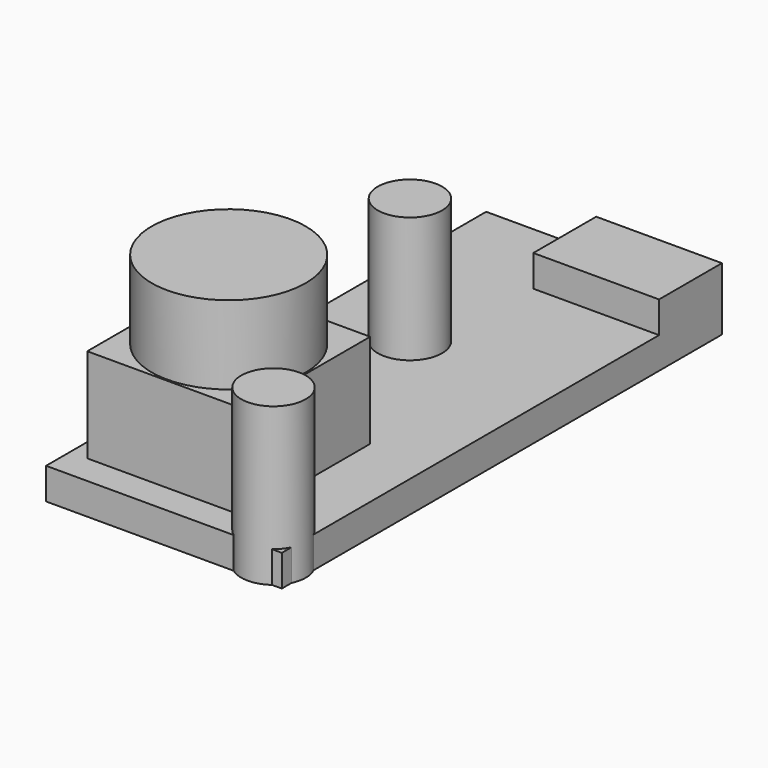
from build123d import *

# Parameters (mm, degrees)
CYLINDER001_R     = 1.25
CYLINDER001_DEPTH = 10
CYLINDER002_R     = 1.25
CYLINDER002_DEPTH = 10
BOX_W             = 15
BOX_H             = 35
BOX_DEPTH         = 2
BOX001_W          = 10
BOX001_H          = 10
BOX001_DEPTH      = 8
CYLINDER_R        = 4.9
CYLINDER_DEPTH    = 13
BOX002_W          = 8
BOX002_H          = 5
BOX002_DEPTH      = 4
CYLINDER003_R     = 1.25
CYLINDER003_DEPTH = 10
CYLINDER004_R     = 1.25
CYLINDER004_DEPTH = 10
CYLINDER005_R     = 2.05
CYLINDER005_DEPTH = 10
CYLINDER006_R     = 2.05
CYLINDER006_DEPTH = 10


with BuildPart() as cylinder001:
    # Cylinder001 → Cylinder001 (new body)
    with BuildSketch(Plane(origin=(5.75, 21.75, 0), x_dir=(1, 0, 0), z_dir=(0, 0, 1))):
        Circle(CYLINDER001_R)
    extrude(amount=CYLINDER001_DEPTH)


with BuildPart() as screwholes:
    # Cylinder002 → Cylinder002 (new body)
    with BuildSketch(Plane(origin=(13.15, 1.65, 0), x_dir=(1, 0, 0), z_dir=(0, 0, 1))):
        Circle(CYLINDER002_R)
    extrude(amount=CYLINDER002_DEPTH)

    # Fusion001: union Cylinder001
    add(cylinder001.part)


with BuildPart() as cube:
    # Box → Box (new body)
    with BuildSketch(Plane.XY):
        with Locations((7.5, 17.5)):
            Rectangle(BOX_W, BOX_H)
    extrude(amount=BOX_DEPTH)


with BuildPart() as cube001:
    # Box001 → Box001 (new body)
    with BuildSketch(Plane(origin=(1.1, 1.9, 0), x_dir=(1, 0, 0), z_dir=(0, 0, 1))):
        with Locations((5, 5)):
            Rectangle(BOX001_W, BOX001_H)
    extrude(amount=BOX001_DEPTH)


with BuildPart() as cylinder:
    # Cylinder → Cylinder (new body)
    with BuildSketch(Plane(origin=(6.1, 6.9, 0), x_dir=(1, 0, 0), z_dir=(0, 0, 1))):
        Circle(CYLINDER_R)
    extrude(amount=CYLINDER_DEPTH)


with BuildPart() as obj1:
    # Box002 → Box002 (new body)
    with BuildSketch(Plane(origin=(7, 30, 0), x_dir=(1, 0, 0), z_dir=(0, 0, 1))):
        with Locations((4, 2.5)):
            Rectangle(BOX002_W, BOX002_H)
    extrude(amount=BOX002_DEPTH)

    # Fusion: union Cube, Cube001, Cylinder
    add(cube.part)
    add(cube001.part)
    add(cylinder.part)

    # Cut: cut ScrewHoles
    add(screwholes.part, mode=Mode.SUBTRACT)


with BuildPart() as cylinder003:
    # Cylinder003 → Cylinder003 (new body)
    with BuildSketch(Plane(origin=(5.75, 21.75, 0), x_dir=(1, 0, 0), z_dir=(0, 0, 1))):
        Circle(CYLINDER003_R)
    extrude(amount=CYLINDER003_DEPTH)


with BuildPart() as screwtemplates_through:
    # Cylinder004 → Cylinder004 (new body)
    with BuildSketch(Plane(origin=(13.15, 1.65, 0), x_dir=(1, 0, 0), z_dir=(0, 0, 1))):
        Circle(CYLINDER004_R)
    extrude(amount=CYLINDER004_DEPTH)

    # Fusion002: union Cylinder003
    add(cylinder003.part)


with BuildPart() as cylinder005:
    # Cylinder005 → Cylinder005 (new body)
    with BuildSketch(Plane(origin=(5.75, 21.75, 0), x_dir=(1, 0, 0), z_dir=(0, 0, 1))):
        Circle(CYLINDER005_R)
    extrude(amount=CYLINDER005_DEPTH)


with BuildPart() as screwtemplates_core:
    # Cylinder006 → Cylinder006 (new body)
    with BuildSketch(Plane(origin=(13.15, 1.65, 0), x_dir=(1, 0, 0), z_dir=(0, 0, 1))):
        Circle(CYLINDER006_R)
    extrude(amount=CYLINDER006_DEPTH)

    # Fusion003: union Cylinder005
    add(cylinder005.part)


solid = Compound([obj1.part, screwtemplates_through.part, screwtemplates_core.part])
